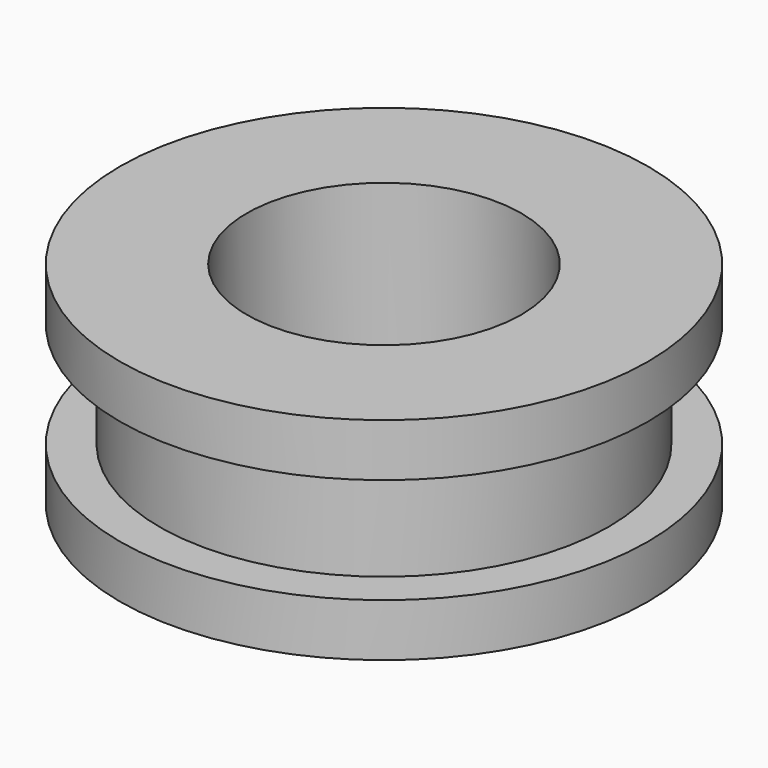
from build123d import *

# Parameters (mm, degrees)
F0_R     = 5
F1_DEPTH = 4
F3_R     = 5
F3_R_2   = 4.25
F4_DEPTH = 3
F2_R     = 2.6
F5_DEPTH = 4.001
F6_DEPTH = 1


with BuildPart() as f1:
    # F0 (on Top) → F1 (new body)
    with BuildSketch(Plane.XY):
        Circle(F0_R)
    extrude(amount=F1_DEPTH)

    # F3 (on face) → F4 (cut)
    with BuildSketch(Plane(origin=(0, 0, 0), x_dir=(1, 0, 0), z_dir=(0, 0, -1))):
        Circle(F3_R)
        Circle(F3_R_2, mode=Mode.SUBTRACT)
    extrude(amount=-F4_DEPTH, mode=Mode.SUBTRACT)

    # F2 (on face) → F5 (cut, through all)
    with BuildSketch(Plane.XY.offset(4)):
        Circle(F2_R)
    extrude(amount=-F5_DEPTH, mode=Mode.SUBTRACT)

    # F3 (on face) → F6 (join)
    with BuildSketch(Plane(origin=(0, 0, 0), x_dir=(1, 0, 0), z_dir=(0, 0, -1))):
        Circle(F3_R)
        Circle(F3_R_2, mode=Mode.SUBTRACT)
    extrude(amount=-F6_DEPTH)


solid = f1.part
